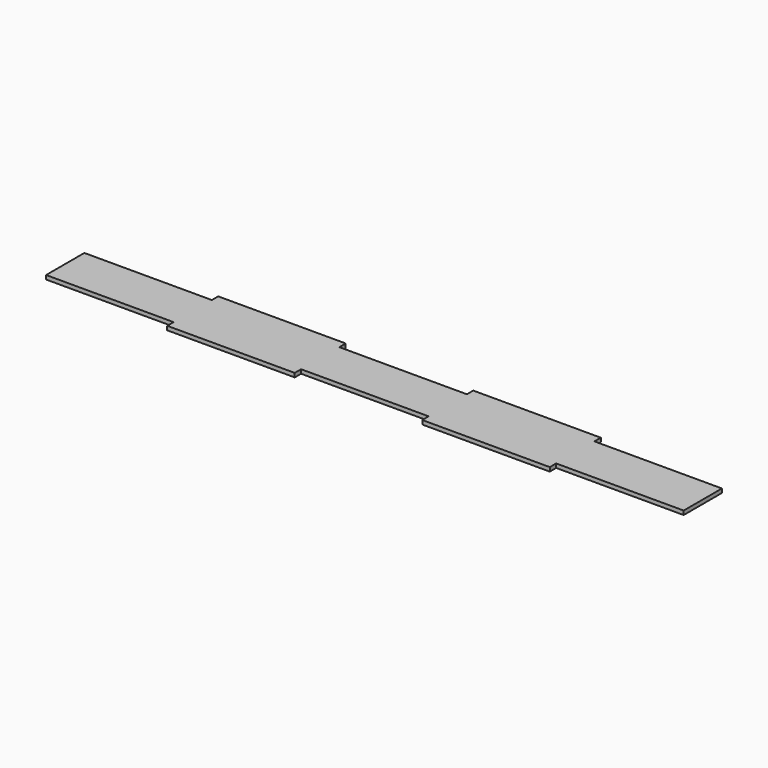
from build123d import *

# Parameters (mm, degrees)
F0_W     = 508
F0_H     = 50.8
F1_DEPTH = 3.175
F2_W     = 101.6
F2_H     = 6.35
F3_DEPTH = 25.4
F4_W     = 101.6
F4_H     = 6.35
F5_DEPTH = 25.4


with BuildPart() as f1:
    # F0 (on Top) → F1 (new body)
    with BuildSketch(Plane.XY):
        with Locations((254, 25.4)):
            Rectangle(F0_W, F0_H)
    extrude(amount=F1_DEPTH)

    # F2 (on face) → F3 (cut)
    with BuildSketch(Plane.XY.offset(3.175)):
        with Locations((254, 3.175)):
            Rectangle(F2_W, F2_H)
        with Locations((457.2, 3.175)):
            Rectangle(F2_W, F2_H)
        with Locations((50.8, 3.175)):
            Rectangle(F2_W, F2_H)
    extrude(amount=-F3_DEPTH, mode=Mode.SUBTRACT)

    # F4 (on face) → F5 (cut)
    with BuildSketch(Plane.XY.offset(3.175)):
        with Locations((457.2, 47.625)):
            Rectangle(F4_W, F4_H)
        with Locations((254, 47.625)):
            Rectangle(F4_W, F4_H)
        with Locations((50.8, 47.625)):
            Rectangle(F4_W, F4_H)
    extrude(amount=-F5_DEPTH, mode=Mode.SUBTRACT)


solid = f1.part
